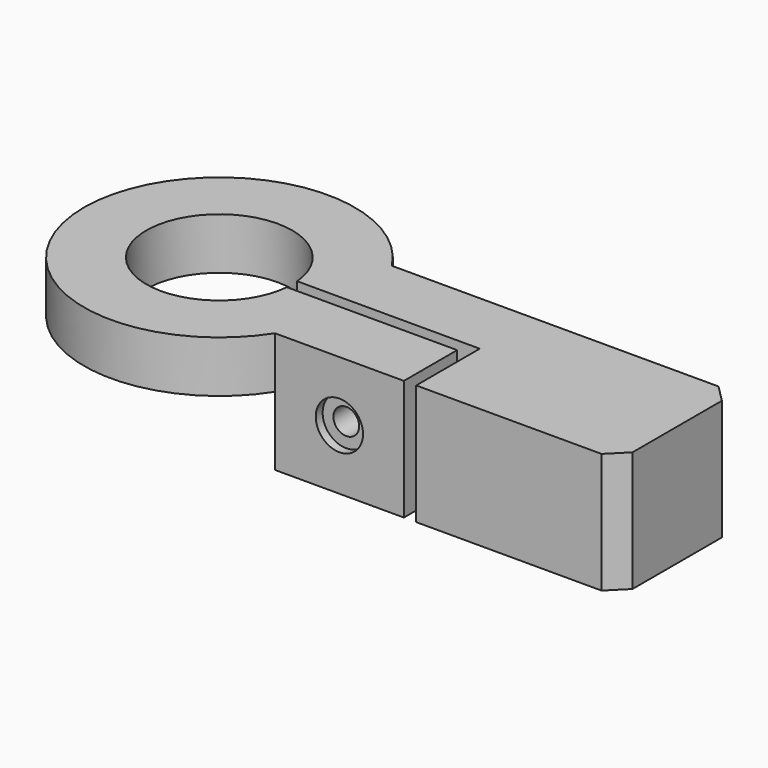
from build123d import *

# Parameters (mm, degrees)
F1_DEPTH  = 14
F2_R      = 2.75
F3_DEPTH  = 1
F4_R      = 1.5
F5_DEPTH  = 6.75
F6_R      = 1
F7_DEPTH  = 15
F9_DEPTH  = 8
F10_R     = 1.5
F11_DEPTH = 12
F12_SIZE  = 2


with BuildPart() as f1:
    # F0 (on Top) → F1 (new body)
    with BuildSketch(Plane.XY):
        with BuildLine():
            Line((-72.3968957005, -4.1161350385), (-112.3968957005, -4.1161350385))
            ThreePointArc((-112.3968957005, -4.1161350385), (-141.4063263067, -12.6161350385), (-112.3968957005, -21.1161350385))
            Line((-112.3968957005, -21.1161350385), (-97.3968957005, -21.1161350385))
            Line((-97.3968957005, -21.1161350385), (-97.3968957005, -13.3661350385))
            Line((-97.3968957005, -13.3661350385), (-117.2151498361, -13.3661350385))
            ThreePointArc((-117.2151498361, -13.3661350385), (-134.1563263067, -12.6161350385), (-117.2151498361, -11.8661350385))
            Line((-117.2151498361, -11.8661350385), (-95.9651498361, -11.8661350385))
            Line((-95.9651498361, -11.8661350385), (-95.9651498361, -21.1161350385))
            Line((-95.9651498361, -21.1161350385), (-72.3968957005, -21.1161350385))
            Line((-72.3968957005, -21.1161350385), (-72.3968957005, -4.1161350385))
        make_face()
    extrude(amount=F1_DEPTH)

    # F2 (on face) → F3 (cut)
    with BuildSketch(Plane.XZ.offset(21.1161350386)):
        with Locations((-104.8968957005, 7)):
            Circle(F2_R)
    extrude(amount=-F3_DEPTH, mode=Mode.SUBTRACT)

    # F4 (on face) → F5 (cut, through all)
    with BuildSketch(Plane.XZ.offset(20.1161350386)):
        with Locations((-104.8968957005, 7)):
            Circle(F4_R)
    extrude(amount=-F5_DEPTH, mode=Mode.SUBTRACT)

    # F6 (on face) → F7 (cut)
    with BuildSketch(Plane.XZ.offset(20.1161350386)):
        with Locations((-104.8968957005, 7)):
            Circle(F6_R)
    extrude(amount=-F7_DEPTH, mode=Mode.SUBTRACT)

    # F8 (on face) → F9 (cut)
    with BuildSketch(Plane(origin=(0, 0, 0), x_dir=(1, 0, 0), z_dir=(0, 0, -1))):
        with BuildLine():
            ThreePointArc((-109.9262055214, 13.3661350385), (-110.6529561162, 17.403274319), (-112.3968957005, 21.1161350385))
            ThreePointArc((-112.3968957005, 21.1161350385), (-141.4063263067, 12.6161350385), (-112.3968957005, 4.1161350385))
            ThreePointArc((-112.3968957005, 4.1161350385), (-110.6529561162, 7.8289957581), (-109.9262055214, 11.8661350385))
            Line((-109.9262055214, 11.8661350385), (-117.2151498361, 11.8661350385))
            ThreePointArc((-117.2151498361, 11.8661350385), (-134.1563263067, 12.6161350385), (-117.2151498361, 13.3661350385))
            Line((-117.2151498361, 13.3661350385), (-109.9262055214, 13.3661350385))
        make_face()
    extrude(amount=-F9_DEPTH, mode=Mode.SUBTRACT)

    # F10 (on face) → F11 (cut)
    with BuildSketch(Plane(origin=(0, 0, 0), x_dir=(1, 0, 0), z_dir=(0, 0, -1))):
        with Locations((-79.6468957005, 12.6161350385)):
            Circle(F10_R)
        with Locations((-86.8968957005, 12.6161350385)):
            Circle(F10_R)
    extrude(amount=-F11_DEPTH, mode=Mode.SUBTRACT)

    # F12
    f12_edges = [f1.edges().sort_by_distance(p)[0] for p in [
        (-72.396896, -4.116135, 7),
        (-72.396896, -21.116135, 7),
    ]]
    chamfer(f12_edges, length=F12_SIZE)


solid = f1.part
